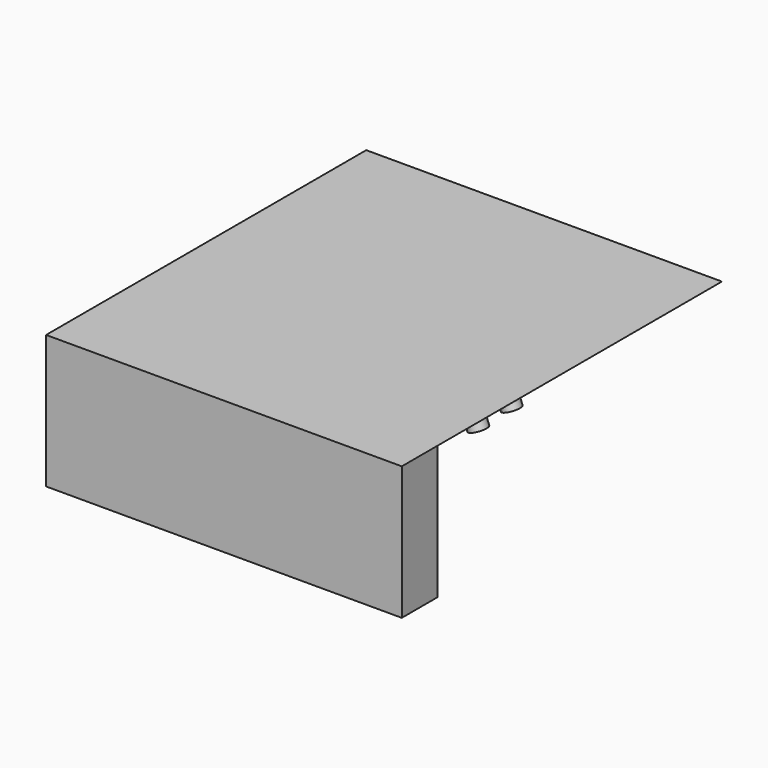
from build123d import *

# Parameters (mm, degrees)
F0_W     = 203.2
F0_H     = 228.6
F1_DEPTH = 76.2
F3_DEPTH = 203.2
F5_DEPTH = 171.45
F6_R     = 5.08
F7_DEPTH = 7.62


with BuildPart() as f1:
    # F0 (on Top) → F1 (new body)
    with BuildSketch(Plane.XY):
        with Locations((26.3025880603, 37.1842714906)):
            Rectangle(F0_W, F0_H)
    extrude(amount=F1_DEPTH)

    # F2 (on face) → F3 (cut)
    with BuildSketch(Plane(origin=(0, 151.4842714906, 0), x_dir=(-1, 0, 0), z_dir=(0, 1, 0))):
        Polygon((-127.9025880603, 0), (75.2974119397, 0), (-127.9025880603, 76.2), align=None)
    extrude(amount=-F3_DEPTH, mode=Mode.SUBTRACT)

    # F4 (on face) → F5 (cut)
    with BuildSketch(Plane(origin=(0, 151.4842714906, 0), x_dir=(-1, 0, 0), z_dir=(0, 1, 0))):
        with BuildLine():
            Line((-96.1709320552, 64.3006289981), (-70.0098948339, 54.4902400401))
            ThreePointArc((-70.0098948339, 54.4902400401), (-79.1150585712, 69.996380848), (-96.1709320552, 64.3006289981))
        make_face()
    extrude(amount=-F5_DEPTH, mode=Mode.SUBTRACT)

    # F6 (on face) → F7 (join)
    with BuildSketch(Plane(origin=(-9.2832425679, 0, 24.7553135144), x_dir=(0.9363291776, 0, 0.3511234416), z_dir=(0.3511234416, 0, -0.9363291776))):
        with Locations((131.4422286823, -15.679504171)):
            Circle(F6_R)
        with Locations((131.4422286823, -15.679504171)):
            Circle(F6_R)
        with Locations((132.6000029427, 9.4702642467)):
            Circle(F6_R)
        with Locations((132.6000029427, 9.4702642467)):
            Circle(F6_R)
    extrude(amount=F7_DEPTH)


solid = f1.part
